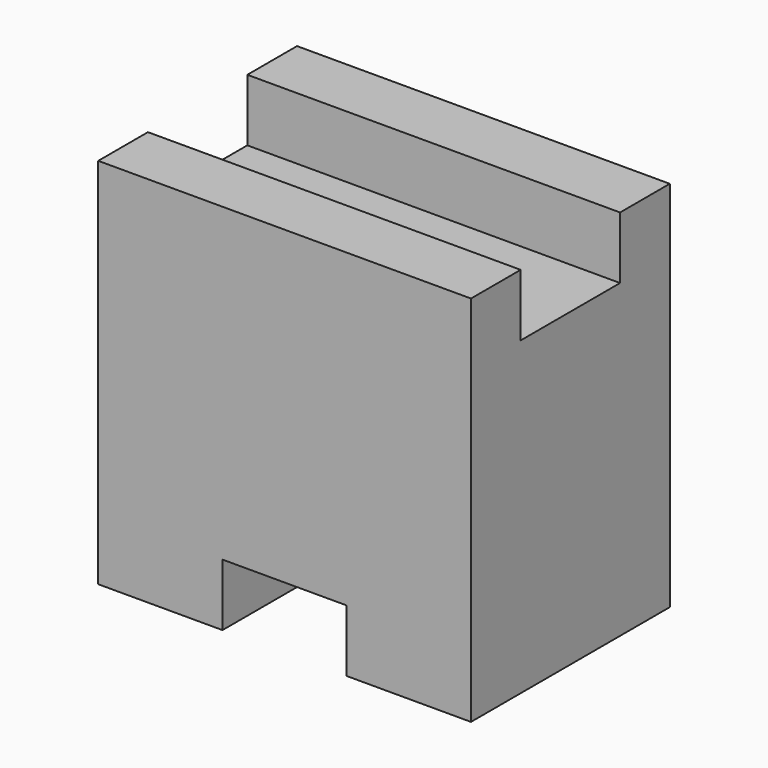
from build123d import *

# Parameters (mm, degrees)
F0_W     = 12.7
F0_H     = 6.35
F1_DEPTH = 38.1
F2_DEPTH = 38.1
F3_W     = 12.7
F3_H     = 6.35
F4_DEPTH = 25.4


with BuildPart() as f1:
    # F0 (on Right) → F1 (new body)
    with BuildSketch(Plane.YZ):
        Polygon((0, 38.1), (0, 0), (25.4, 0), (25.4, 38.1), (19.05, 38.1), (19.05, 31.75), (6.35, 31.75), (6.35, 38.1), align=None)
        with Locations((12.7, 34.925)):
            Rectangle(F0_W, F0_H)
    extrude(amount=F1_DEPTH)

    # F0 (on Right) → F2 (cut)
    with BuildSketch(Plane.YZ):
        with Locations((12.7, 34.925)):
            Rectangle(F0_W, F0_H)
    extrude(amount=F2_DEPTH, mode=Mode.SUBTRACT)

    # F3 (on face) → F4 (cut)
    with BuildSketch(Plane.XZ):
        with Locations((19.05, 3.175)):
            Rectangle(F3_W, F3_H)
    extrude(amount=-F4_DEPTH, mode=Mode.SUBTRACT)


solid = f1.part
